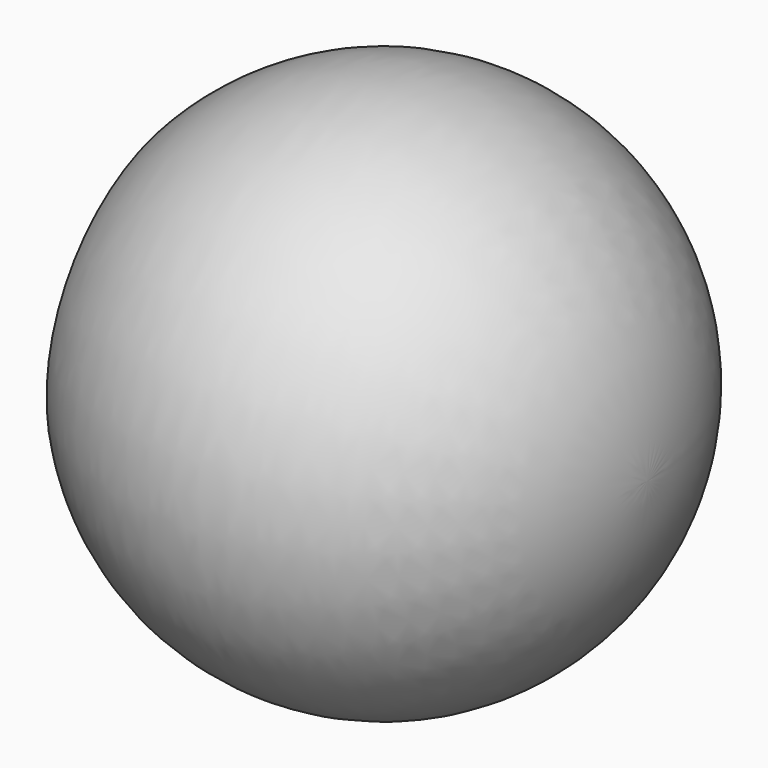
from build123d import *

# Parameters (mm, degrees)
F2_R     = 4.25
F3_DEPTH = 13


with BuildPart() as f1:
    # F0 (on Top) → F1 (revolve)
    with BuildSketch(Plane.XY):
        with BuildLine():
            Line((0, 0), (15, 0))
            ThreePointArc((15, 0), (9.531099, 8.077747), (0, 6))
            Line((0, 6), (0, 0))
        make_face()
    revolve(axis=Axis((7.5, 0, 0), (-1, 0, 0)))

    # F2 (on face) → F3 (cut)
    with BuildSketch(Plane(origin=(0, 0, 0), x_dir=(0, -1, 0), z_dir=(-1, 0, 0))):
        Circle(F2_R)
    extrude(amount=-F3_DEPTH, mode=Mode.SUBTRACT)


solid = f1.part
